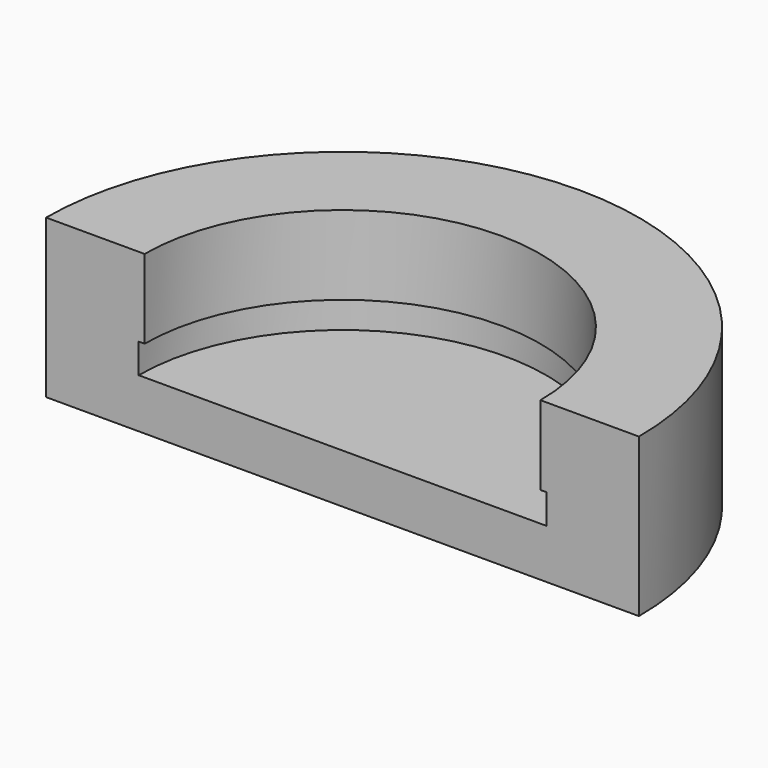
from build123d import *

# Parameters (mm, degrees)
F1_ANGLE = 180


with BuildPart() as f1:
    # F0 (on Front) → F1 (revolve)
    with BuildSketch(Plane.XZ):
        Polygon((-6.1671, -2.123624), (8.8329, -2.123624), (8.8329, 0.376376), (-1.482887, 0.376376), (-1.482887, 1.876376), (-1.182887, 1.876376), (-1.182887, 5.876376), (-6.1671, 5.876376), align=None)
    revolve(axis=Axis((8.8329, 0, -0.873624), (0, 0, -1)), revolution_arc=F1_ANGLE)


solid = f1.part
